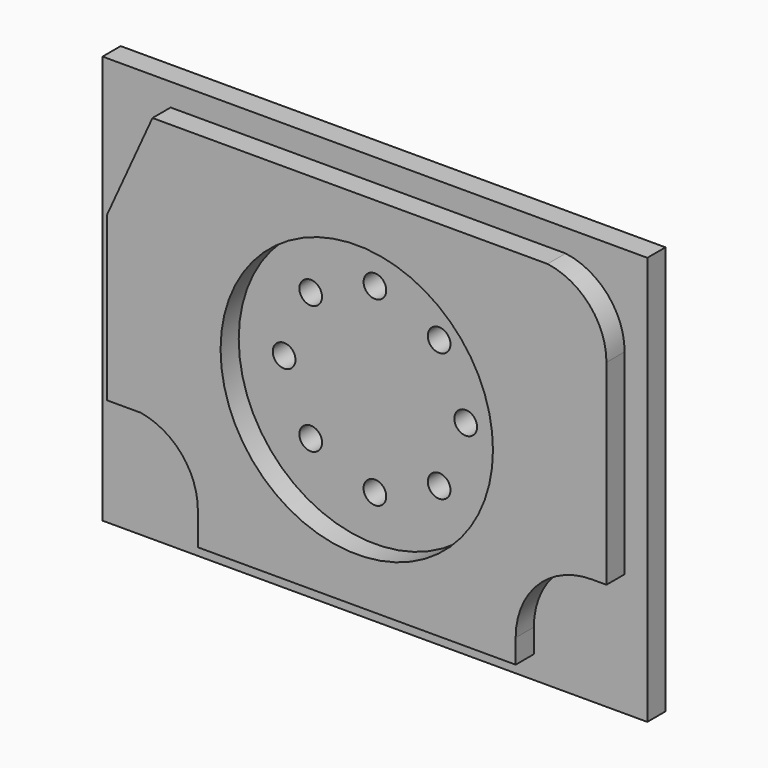
from build123d import *

# Parameters (mm, degrees)
F0_W     = 120
F0_H     = 90
F1_DEPTH = 5
F3_D     = 5
F4_R     = 2.5
F5_DEPTH = 5
F6_R     = 30
F7_DEPTH = 5


with BuildPart() as f1:
    # F0 (on Front) → F1 (new body)
    with BuildSketch(Plane.XZ):
        with Locations((-60, 45)):
            Rectangle(F0_W, F0_H)
    extrude(amount=F1_DEPTH)

    # F3 (through all)
    with Locations(Plane.XZ.offset(5)):
        with Locations((-74.144270925, 59.14), (-60, 65), (-45.86, 59.144270925), (-40, 45), (-45.855729075, 30.86), (-60, 25), (-80, 45), (-74.144270925, 30.86)):
            Hole(F3_D / 2)

    # F4 (on face) → F5 (join)
    with BuildSketch(Plane.XZ.offset(5)):
        with BuildLine():
            Line((-5, 27), (-5, 70.1358293132))
            ThreePointArc((-5, 70.1358293132), (-8.7037424203, 80.0046977738), (-17.985941959, 85))
            Line((-17.985941959, 85), (-105, 85))
            Line((-105, 85), (-115, 63))
            Line((-115, 63), (-115, 27))
            Line((-115, 27), (-107.5818091631, 27))
            ThreePointArc((-107.5818091631, 27), (-98.5703704663, 21.9102960199), (-95, 12.1962047746))
            Line((-95, 12.1962047746), (-95, 5))
            Line((-95, 5), (-25, 5))
            Line((-25, 5), (-25, 10.2326651871))
            ThreePointArc((-25, 10.2326651871), (-20.0889613357, 22.0889613357), (-8.2326651871, 27))
            Line((-8.2326651871, 27), (-5, 27))
        make_face()
        with Locations((-74.144270925, 30.86)):
            Circle(F4_R, mode=Mode.SUBTRACT)
        with Locations((-60, 25)):
            Circle(F4_R, mode=Mode.SUBTRACT)
        with Locations((-45.855729075, 30.86)):
            Circle(F4_R, mode=Mode.SUBTRACT)
        with Locations((-80, 45)):
            Circle(F4_R, mode=Mode.SUBTRACT)
        with Locations((-74.144270925, 59.14)):
            Circle(F4_R, mode=Mode.SUBTRACT)
        with Locations((-40, 45)):
            Circle(F4_R, mode=Mode.SUBTRACT)
        with Locations((-45.86, 59.144270925)):
            Circle(F4_R, mode=Mode.SUBTRACT)
        with Locations((-60, 65)):
            Circle(F4_R, mode=Mode.SUBTRACT)
    extrude(amount=F5_DEPTH)

    # F6 (on face) → F7 (cut)
    with BuildSketch(Plane.XZ.offset(10)):
        with Locations((-60, 45)):
            Circle(F6_R)
    extrude(amount=-F7_DEPTH, mode=Mode.SUBTRACT)


solid = f1.part
